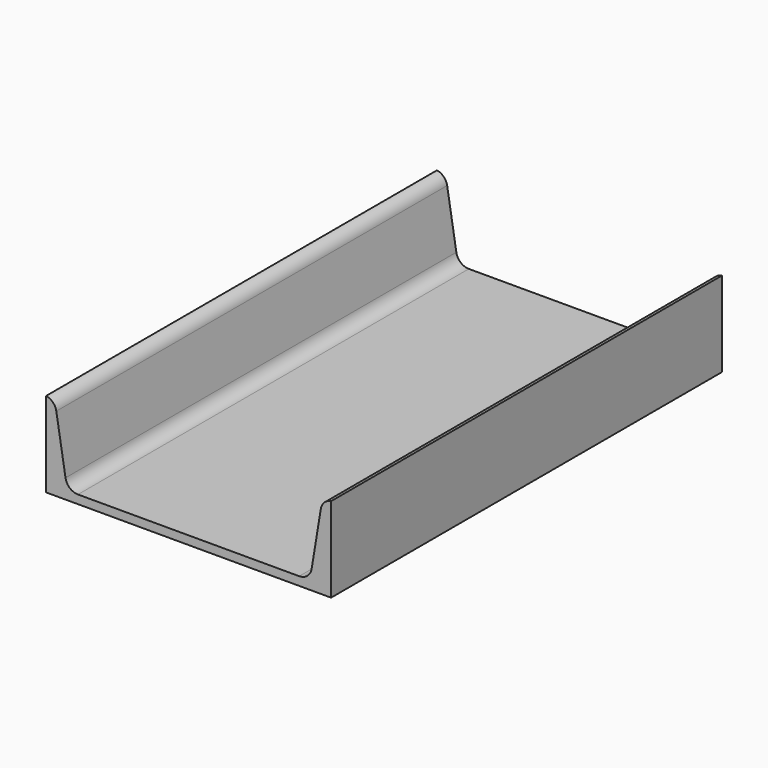
from build123d import *

# Parameters (mm, degrees)
F1_DEPTH = 304.8


with BuildPart() as f1:
    # F0 (on Front) → F1 (new body)
    with BuildSketch(Plane.XZ):
        with BuildLine():
            Line((0, 53.001386), (0, 0))
            Line((0, 0), (177.8, 0))
            Line((177.8, 0), (177.8, 53.001386))
            ThreePointArc((177.8, 53.001386), (173.582811, 50.892435), (171.413937, 46.705748))
            Line((171.413937, 46.705748), (165.679132, 11.926927))
            ThreePointArc((165.679132, 11.926927), (163.004781, 7.204374), (157.910044, 5.334))
            Line((157.910044, 5.334), (19.889956, 5.334))
            ThreePointArc((19.889956, 5.334), (14.795219, 7.204374), (12.120868, 11.926927))
            Line((12.120868, 11.926927), (6.386063, 46.705748))
            ThreePointArc((6.386063, 46.705748), (4.217189, 50.892435), (0, 53.001386))
        make_face()
    extrude(amount=F1_DEPTH)


solid = f1.part
